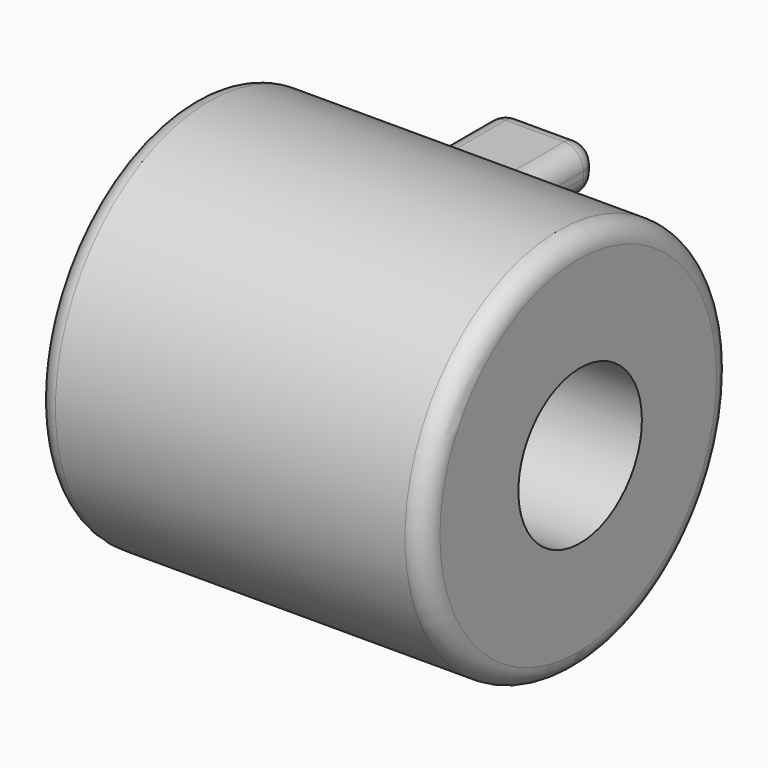
from build123d import *

# Parameters (mm, degrees)
F0_R     = 50.3050224019
F0_R_2   = 20.1945759799
F1_DEPTH = 101.6
F3_DEPTH = 25.4
F4_R     = 5.08
F4_2_R   = 5.08


with BuildPart() as f1:
    # F0 (on Right) → F1 (new body)
    with BuildSketch(Plane.YZ):
        with Locations((-0.6305426359, 33.0975167453)):
            Circle(F0_R)
        with Locations((0, 32.9009890556)):
            Circle(F0_R_2, mode=Mode.SUBTRACT)
    extrude(amount=F1_DEPTH)

    # F4#2
    f4_2_edges = [f1.edges().sort_by_distance(p)[0] for p in [
        (0, -50.935565, 33.097517),
        (50.8, 49.67448, 33.097517),
        (101.6, -50.935565, 33.097517),
    ]]
    fillet(f4_2_edges, radius=F4_2_R)


with BuildPart() as f3:
    # F2 (on face) → F3 (new body)
    with BuildSketch(Plane.YZ):
        with BuildLine():
            ThreePointArc((49.6744797659, 33.0975167453), (49.6015460943, 30.3896503067), (49.3829565621, 27.6896357536))
            Line((49.3829565621, 27.6896357536), (101.3861596584, 27.6896357536))
            Line((101.3861596584, 27.6896357536), (101.3861596584, 39.5521745086))
            Line((101.3861596584, 39.5521745086), (49.2586613266, 39.5521745086))
            ThreePointArc((49.2586613266, 39.5521745086), (49.5704175232, 36.3315356002), (49.6744797659, 33.0975167453))
        make_face()
    extrude(amount=F3_DEPTH)

    # F4
    f4_edges = [f3.edges().sort_by_distance(p)[0] for p in [
        (12.7, 101.38616, 27.689636),
        (12.7, 101.38616, 39.552175),
        (0, 101.38616, 33.620905),
        (25.4, 101.38616, 33.620905),
        (25.4, 49.671719, 33.624582),
        (25.4, 75.384558, 27.689636),
        (25.4, 75.32241, 39.552175),
        (0, 49.671719, 33.624582),
        (0, 75.384558, 27.689636),
        (0, 75.32241, 39.552175),
    ]]
    fillet(f4_edges, radius=F4_R)


solid = Compound([f1.part, f3.part])
